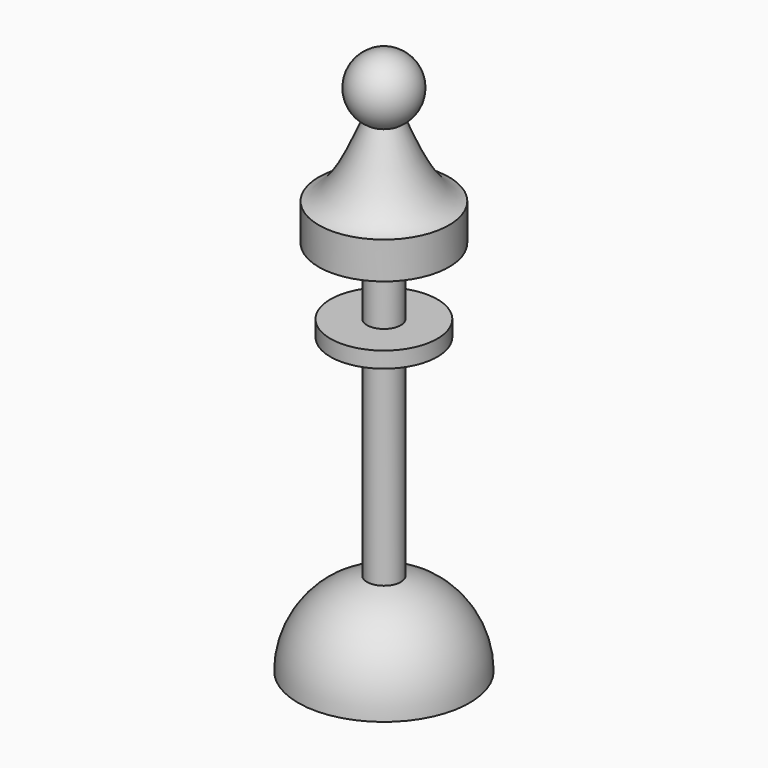
from build123d import *

# Parameters (mm, degrees)
F0_W = 2.5526854842
F0_H = 10.1122138213


with BuildPart() as f1:
    # F0 (on Front) → F1 (revolve)
    with BuildSketch(Plane.XZ):
        with BuildLine():
            Line((-12.954003365, -50.9409314715), (0, -50.9409314715))
            Line((0, -50.9409314715), (0, -6.4909314715))
            Line((0, -6.4909314715), (-2.5526854842, -6.4909314715))
            Line((-2.5526854842, -6.4909314715), (-2.5526854842, -38.2409314715))
            ThreePointArc((-2.5526854842, -38.2409314715), (-10.0218186856, -42.7330478579), (-12.954003365, -50.9409314715))
        make_face()
        Polygon((-2.5526854842, -6.4909314715), (0, -6.4909314715), (0, -4.079599589), (-2.5526854842, -4.079599589), (-8.0761329529, -4.079599589), (-8.0761329529, -6.4909314715), align=None)
        with Locations((-1.2763427421, 0.9765073217)):
            Rectangle(F0_W, F0_H)
        Polygon((-2.5526854842, 6.0326142323), (0, 6.0326142323), (0, 11.6038150552), (-9.8403467364, 11.6038150552), (-9.8403467364, 6.0326142323), align=None)
        with BuildLine():
            Line((-9.8403467364, 11.6038150552), (0, 11.6038150552))
            Line((0, 11.6038150552), (0, 31.6090685285))
            ThreePointArc((0, 31.6090685285), (-4.7345416904, 28.017916895), (-2.5526854842, 22.4905523723))
            add(Edge.make_bspline(
                [(-2.5526854842, 22.4905523723), (-4.6493321496, 17.5078412864), (-6.7459788149, 12.5251302005), (-9.8403467364, 11.6038150552)],
                knots=[0, 0, 0, 0, 0.5200887798, 0.5200887798, 0.5200887798, 0.5200887798], degree=3))
        make_face()
    revolve(axis=Axis((0, 0, -3.3069803269), (0, 0, 1)))


solid = f1.part
